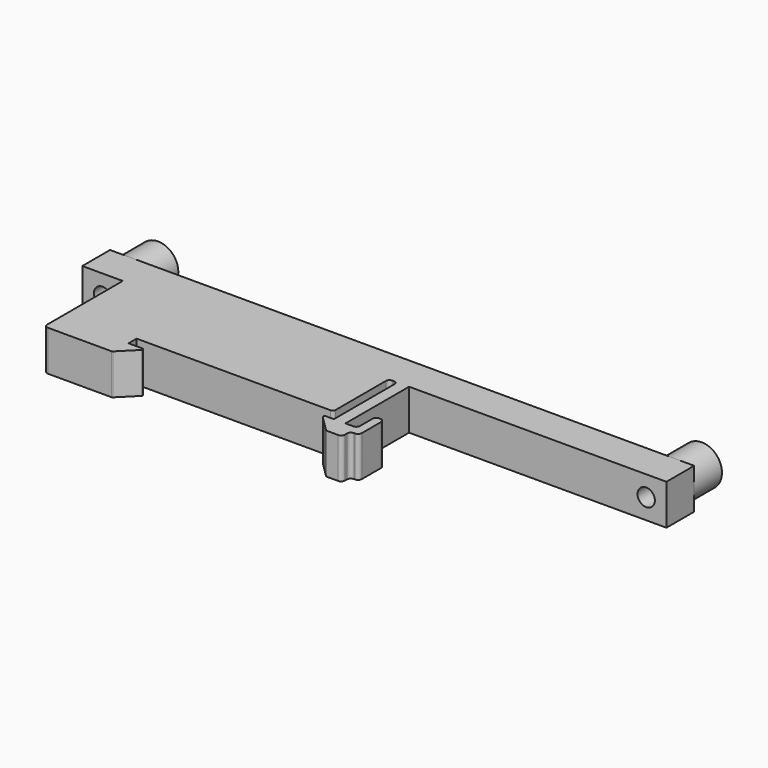
from build123d import *

# Parameters (mm, degrees)
F1_DEPTH = 3.5
F2_R     = 3.5
F3_DEPTH = 6
F4_R     = 1.5
F5_DEPTH = 29.001


with BuildPart() as f1:
    # F0 (on Top) → F1 (new body, symmetric)
    with BuildSketch(Plane.XY):
        with BuildLine():
            Line((0, -1.75), (0, 0))
            Line((0, 0), (33.5, 0))
            ThreePointArc((33.5, 0), (33.8535533906, 0.1464466094), (34, 0.5))
            Line((34, 0.5), (34, 11.35))
            ThreePointArc((34, 11.35), (34.1903805922, 11.8096194078), (34.65, 12))
            Line((34.65, 12), (34.85, 12))
            ThreePointArc((34.85, 12), (35.3096194078, 11.8096194078), (35.5, 11.35))
            Line((35.5, 11.35), (35.5, -1.75))
            Line((35.5, -1.75), (34.1035533906, -1.75))
            ThreePointArc((34.1035533906, -1.75), (33.8725835075, -1.9043291419), (33.9267766953, -2.1767766953))
            Line((33.9267766953, -2.1767766953), (36.6767766953, -4.9267766953))
            ThreePointArc((36.6767766953, -4.9267766953), (36.7578825325, -4.9809698831), (36.8535533906, -5))
            Line((36.8535533906, -5), (38.85, -5))
            ThreePointArc((38.85, -5), (39.3096194078, -4.8096194078), (39.5, -4.35))
            Line((39.5, -4.35), (39.5, -3.9))
            ThreePointArc((39.5, -3.9), (39.6903805922, -3.4403805922), (40.15, -3.25))
            Line((40.15, -3.25), (40.35, -3.25))
            ThreePointArc((40.35, -3.25), (40.8096194078, -3.0596194078), (41, -2.6))
            Line((41, -2.6), (41, 1.6))
            ThreePointArc((41, 1.6), (40.8096194078, 2.0596194078), (40.35, 2.25))
            Line((40.35, 2.25), (40.15, 2.25))
            ThreePointArc((40.15, 2.25), (39.6903805922, 2.0596194078), (39.5, 1.6))
            Line((39.5, 1.6), (39.5, -1.1))
            ThreePointArc((39.5, -1.1), (39.3096194078, -1.5596194078), (38.85, -1.75))
            Line((38.85, -1.75), (37.5, -1.75))
            Line((37.5, -1.75), (37.5, 11.96))
            ThreePointArc((37.5, 11.96), (37.5117157288, 11.9882842712), (37.54, 12))
            Line((37.54, 12), (82, 12))
            Line((82, 12), (82, 18))
            Line((82, 18), (-19, 18))
            Line((-19, 18), (-19, 12))
            Line((-19, 12), (-12, 12))
            Line((-12, 12), (-12, -4.35))
            ThreePointArc((-12, -4.35), (-11.8096194078, -4.8096194078), (-11.35, -5))
            Line((-11.35, -5), (-0.3535533906, -5))
            ThreePointArc((-0.3535533906, -5), (-0.2578825325, -4.9809698831), (-0.1767766953, -4.9267766953))
            Line((-0.1767766953, -4.9267766953), (2.5732233047, -2.1767766953))
            ThreePointArc((2.5732233047, -2.1767766953), (2.6274164925, -1.9043291419), (2.3964466094, -1.75))
            Line((2.3964466094, -1.75), (0, -1.75))
        make_face()
    extrude(amount=F1_DEPTH, both=True)

    # F2 (on face) → F3 (join)
    with BuildSketch(Plane(origin=(0, 18, 0), x_dir=(-1, 0, 0), z_dir=(0, 1, 0))):
        with Locations((-78.5, 0)):
            Circle(F2_R)
        with Locations((15.5, 0)):
            Circle(F2_R)
    extrude(amount=F3_DEPTH)

    # F4 (on face) → F5 (cut, through all)
    with BuildSketch(Plane(origin=(0, 24, 0), x_dir=(-1, 0, 0), z_dir=(0, 1, 0))):
        with Locations((-78.5, 0)):
            Circle(F4_R)
        with Locations((15.5, 0)):
            Circle(F4_R)
    extrude(amount=-F5_DEPTH, mode=Mode.SUBTRACT)


solid = f1.part
